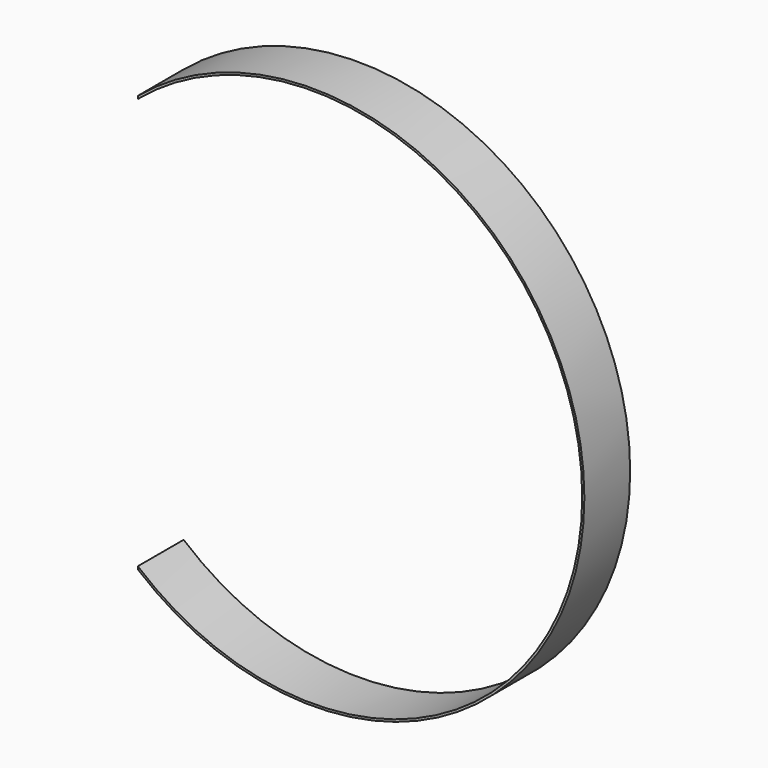
from build123d import *

# Parameters (mm, degrees)
F1_DEPTH = 40


with BuildPart() as f1:
    # F0 (on Front) → F1 (new body)
    with BuildSketch(Plane.XZ):
        with BuildLine():
            ThreePointArc((-122, -145.6571316483), (80.3741251896, -172.1627137333), (190, 0))
            ThreePointArc((190, 0), (80.3741251896, 172.1627137333), (-122, 145.6571316483))
            Line((-122, 145.6571316483), (-122, 143.6949894742))
            ThreePointArc((-122, 143.6949894742), (79.1683333158, 171.0690650001), (188.5, 0))
            ThreePointArc((188.5, 0), (79.1683333158, -171.0690650001), (-122, -143.6949894742))
            Line((-122, -143.6949894742), (-122, -145.6571316483))
        make_face()
    extrude(amount=F1_DEPTH)


solid = f1.part
